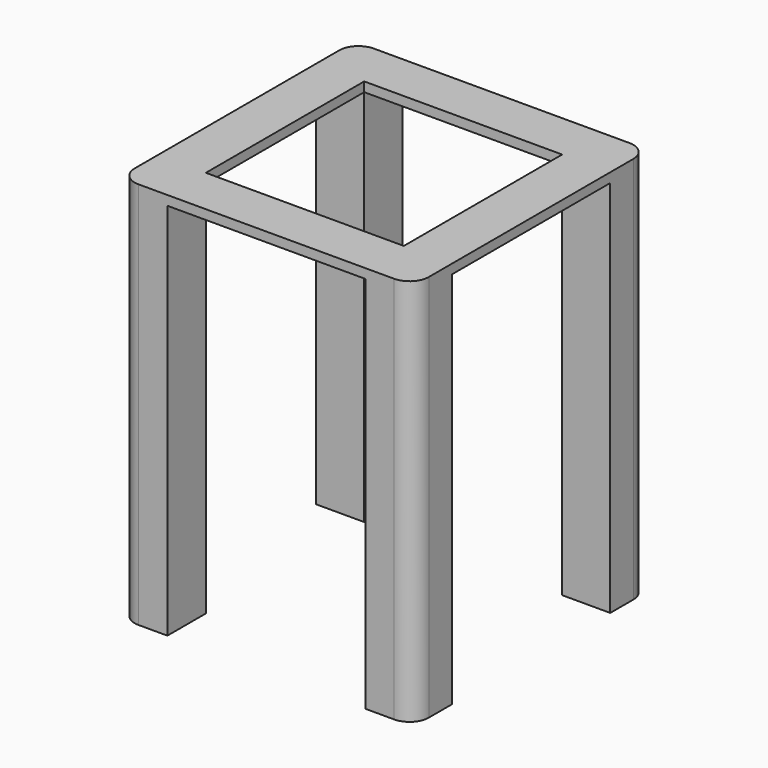
from build123d import *

# Parameters (mm, degrees)
F0_W     = 12.7
F0_H     = 12.7
F1_DEPTH = 100
F2_W     = 12.7
F2_H     = 52.3
F2_H_2   = 12.7
F2_W_2   = 52.3
F3_DEPTH = 2.5
F4_R     = 5.08


with BuildPart() as f1:
    # F0 (on Top) → F1 (new body)
    with BuildSketch(Plane.XY):
        with Locations((-32.5, 32.5)):
            Rectangle(F0_W, F0_H)
    extrude(amount=F1_DEPTH)



with BuildPart() as f1b:
    # F0 (on Top) → F1, piece 2 (new body)
    with BuildSketch(Plane.XY):
        with Locations((32.5, 32.5)):
            Rectangle(F0_W, F0_H)
    extrude(amount=F1_DEPTH)


with BuildPart() as f1c:
    # F0 (on Top) → F1, piece 3 (new body)
    with BuildSketch(Plane.XY):
        with Locations((32.5, -32.5)):
            Rectangle(F0_W, F0_H)
    extrude(amount=F1_DEPTH)


with BuildPart() as f1d:
    # F0 (on Top) → F1, piece 4 (new body)
    with BuildSketch(Plane.XY):
        with Locations((-32.5, -32.5)):
            Rectangle(F0_W, F0_H)
    extrude(amount=F1_DEPTH)


with BuildPart() as f1_1:
    add(f1.part)

    add(f1b.part)  # F3 merges F1b

    add(f1c.part)  # F3 merges F1c

    add(f1d.part)  # F3 merges F1d
    # F2 (on face) → F3 (join)
    with BuildSketch(Plane.XY.offset(100)):
        with Locations((-32.5, 0)):
            Rectangle(F2_W, F2_H)
        with Locations((-32.5, 32.5)):
            Rectangle(F2_W, F2_H_2)
        with Locations((0, 32.5)):
            Rectangle(F2_W_2, F2_H_2)
        with Locations((32.5, 32.5)):
            Rectangle(F2_W, F2_H_2)
        with Locations((32.5, 0)):
            Rectangle(F2_W, F2_H)
        with Locations((32.5, -32.5)):
            Rectangle(F2_W, F2_H_2)
        with Locations((0, -32.5)):
            Rectangle(F2_W_2, F2_H_2)
        with Locations((-32.5, -32.5)):
            Rectangle(F2_W, F2_H_2)
    extrude(amount=F3_DEPTH)

    # F4
    f4_edges = [f1_1.edges().sort_by_distance(p)[0] for p in [
        (38.85, -38.85, 51.25),
        (38.85, 38.85, 51.25),
        (-38.85, 38.85, 51.25),
        (-38.85, -38.85, 51.25),
    ]]
    fillet(f4_edges, radius=F4_R)


solid = f1_1.part
